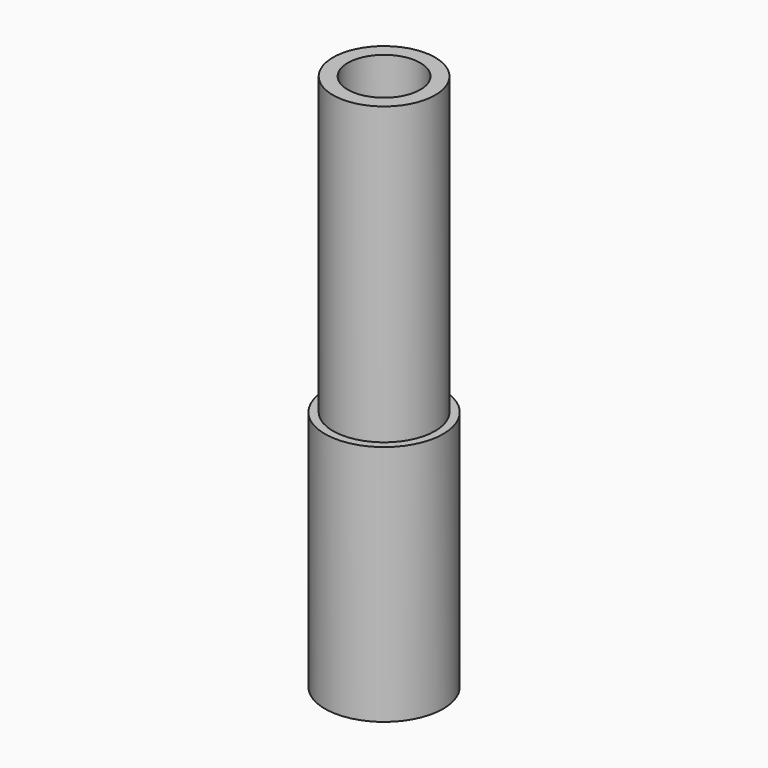
from build123d import *

# Parameters (mm, degrees)
F0_R     = 11
F0_R_2   = 6.75
F1_DEPTH = 45
F2_R     = 9.5
F2_R_2   = 6.75
F3_DEPTH = 55
F5_DEPTH = 12.0000001


with BuildPart() as f1:
    # F0 (on Top) → F1 (new body)
    with BuildSketch(Plane.XY):
        Circle(F0_R)
        Circle(F0_R_2, mode=Mode.SUBTRACT)
    extrude(amount=F1_DEPTH)

    # F2 (on face) → F3 (join)
    with BuildSketch(Plane.XY.offset(45)):
        Circle(F2_R)
        Circle(F2_R_2, mode=Mode.SUBTRACT)
    extrude(amount=F3_DEPTH)

    # F4 (on Right) → F5 (cut, up to face)
    with BuildSketch(Plane.YZ):
        with BuildLine():
            ThreePointArc((0, 3.25), (1.2374368671, 3.7625631329), (1.75, 5))
            ThreePointArc((1.75, 5), (-1.2374368671, 6.2374368671), (0, 3.25))
        make_face()
    extrude(amount=-F5_DEPTH, mode=Mode.SUBTRACT)


solid = f1.part
